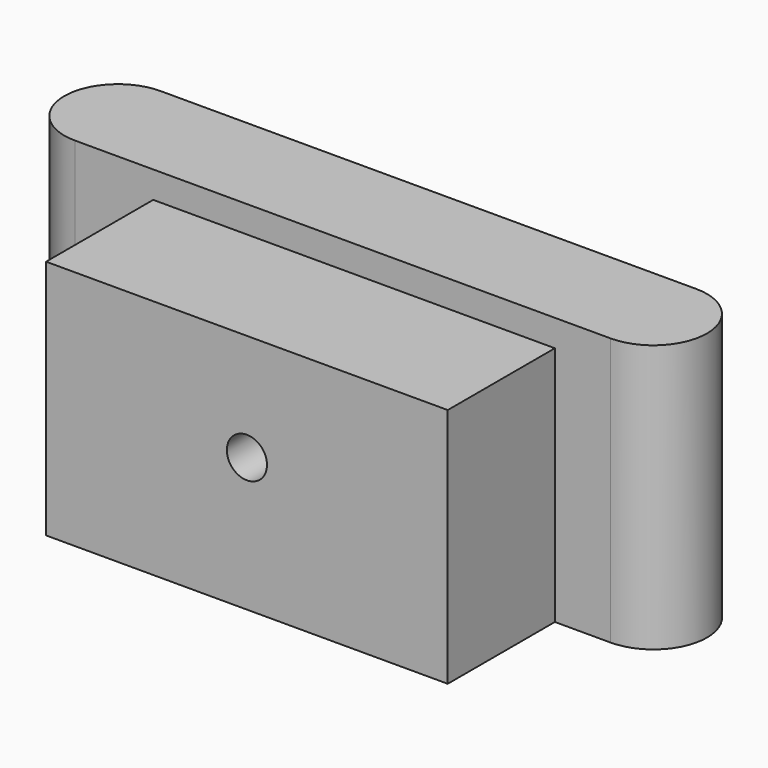
from build123d import *

# Parameters (mm, degrees)
PAD_DEPTH    = 20
SKETCH001_W  = 30
SKETCH001_H  = 18
PAD001_DEPTH = 10
SKETCH002_R  = 1.5
POCKET_DEPTH = 18.001


with BuildPart() as part:
    # Sketch → Pad (new body)
    with BuildSketch(Plane.XY):
        with BuildLine():
            ThreePointArc((-20.838728, 8), (-24.838728, 4), (-20.838728, 0))
            Line((-20.838728, 0), (19.161272, 0))
            ThreePointArc((19.161272, 0), (23.161272, 4), (19.161272, 8))
            Line((-20.838728, 8), (19.161272, 8))
        make_face()
    extrude(amount=PAD_DEPTH)

    # Sketch001 (on Face2 of Pad) → Pad001 (join)
    with BuildSketch(Plane.XZ):
        with Locations((0, 9)):
            Rectangle(SKETCH001_W, SKETCH001_H)
    extrude(amount=PAD001_DEPTH)

    # Sketch002 → Pocket (cut, through all)
    with BuildSketch(Plane(origin=(0, 8, 0), x_dir=(-1, 0, 0), z_dir=(0, 1, 0))):
        with Locations((0, 10)):
            Circle(SKETCH002_R)
    extrude(amount=-POCKET_DEPTH, mode=Mode.SUBTRACT)


solid = part.part
